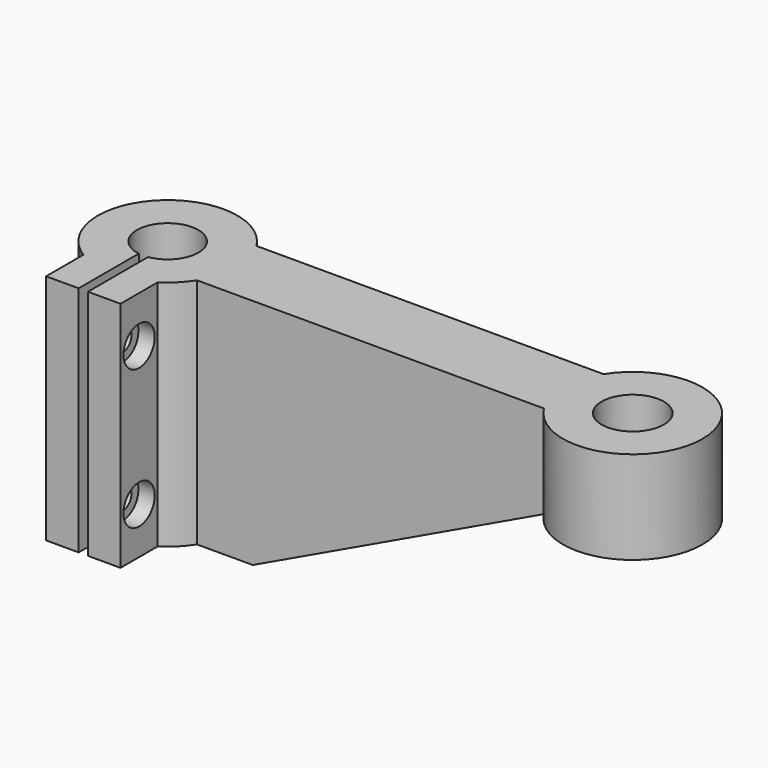
from build123d import *

# Parameters (mm, degrees)
F0_R      = 6.7
F1_DEPTH  = 50
F4_DEPTH  = 38.001
F5_R      = 2.35
F6_DEPTH  = 20
F8_DEPTH  = 3.5
F9_R      = 4.2
F10_DEPTH = 3.5


with BuildPart() as f1:
    # F0 (on Top) → F1 (new body)
    with BuildSketch(Plane.XY):
        with BuildLine():
            Line((-42, -22.6885775404), (-42, -12.6885775404))
            ThreePointArc((-42, -12.6885775404), (-39.3933982822, -10.6066017178), (-37.3114224596, -8))
            Line((-37.3114224596, -8), (37.3114224596, -8))
            ThreePointArc((37.3114224596, -8), (65, 0), (37.3114224596, 8))
            Line((37.3114224596, 8), (-37.3114224596, 8))
            ThreePointArc((-37.3114224596, 8), (-60.6066017178, 10.6066017178), (-58, -12.6885775404))
            Line((-58, -12.6885775404), (-58, -22.6885775404))
            Line((-58, -22.6885775404), (-51, -22.6885775404))
            Line((-51, -22.6885775404), (-51, -6.5238025721))
            ThreePointArc((-51, -6.5238025721), (-50, 6.6), (-49, -6.5238025721))
            Line((-49, -6.5238025721), (-49, -22.6885775404))
            Line((-49, -22.6885775404), (-42, -22.6885775404))
        make_face()
        with Locations((50, 0)):
            Circle(F0_R, mode=Mode.SUBTRACT)
    extrude(amount=F1_DEPTH)

    # F3 (on offset) → F4 (cut, through all)
    with BuildSketch(Plane.XZ.offset(23)):
        Polygon((37.3114224596, 30), (-25.3114224596, 0), (77.7690705738, 0), (77.7690705738, 30), align=None)
    extrude(amount=-F4_DEPTH, mode=Mode.SUBTRACT)

    # F5 (on face) → F6 (cut)
    with BuildSketch(Plane(origin=(-58, 0, 0), x_dir=(0, -1, 0), z_dir=(-1, 0, 0))):
        with Locations((17.6885775404, 40)):
            Circle(F5_R)
        with Locations((17.6885775404, 10)):
            Circle(F5_R)
    extrude(amount=-F6_DEPTH, mode=Mode.SUBTRACT)

    # F7 (on face) → F8 (cut)
    with BuildSketch(Plane(origin=(-58, 0, 0), x_dir=(0, -1, 0), z_dir=(-1, 0, 0))):
        Polygon((17.6885775404, 35.9296806022), (21.2135775404, 37.9648403011), (21.2135775404, 42.0351596989), (17.6885775404, 44.0703193978), (14.1635775404, 42.0351596989), (14.1635775404, 37.9648403011), align=None)
        Polygon((17.6885775404, 5.9296806022), (21.2135775404, 7.9648403011), (21.2135775404, 12.0351596989), (17.6885775404, 14.0703193978), (14.1635775404, 12.0351596989), (14.1635775404, 7.9648403011), align=None)
    extrude(amount=-F8_DEPTH, mode=Mode.SUBTRACT)

    # F9 (on face) → F10 (cut)
    with BuildSketch(Plane.YZ.offset(-42)):
        with Locations((-17.6885775404, 40)):
            Circle(F9_R)
        with Locations((-17.6885775404, 10)):
            Circle(F9_R)
    extrude(amount=-F10_DEPTH, mode=Mode.SUBTRACT)


solid = f1.part
